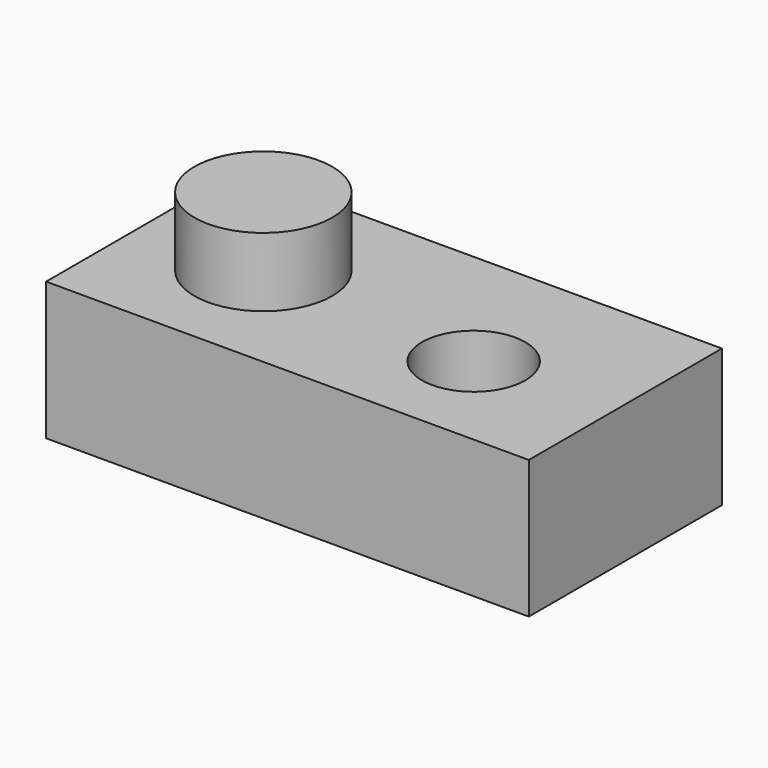
from build123d import *

# Parameters (mm, degrees)
F0_W     = 177.8
F0_H     = 88.9
F1_DEPTH = 50.8
F2_R     = 25.4
F3_DEPTH = 25.4
F4_R     = 19.05
F5_DEPTH = 25.4


with BuildPart() as f1:
    # F0 (on Top) → F1 (new body)
    with BuildSketch(Plane.XY):
        with Locations((88.9, 44.45)):
            Rectangle(F0_W, F0_H)
    extrude(amount=F1_DEPTH)

    # F2 (on face) → F3 (join)
    with BuildSketch(Plane.XY.offset(50.8)):
        with Locations((44.45, 44.45)):
            Circle(F2_R)
    extrude(amount=F3_DEPTH)

    # F4 (on face) → F5 (cut)
    with BuildSketch(Plane.XY.offset(50.8)):
        with Locations((127, 38.1)):
            Circle(F4_R)
    extrude(amount=-F5_DEPTH, mode=Mode.SUBTRACT)


solid = f1.part
